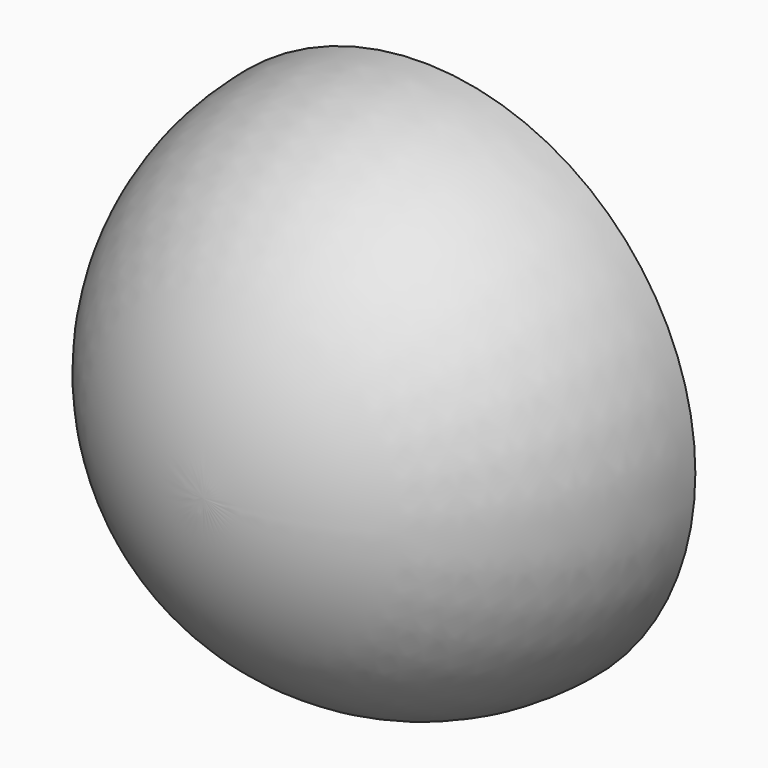
from build123d import *


with BuildPart() as f1:
    # F0 (on Top) → F1 (revolve)
    with BuildSketch(Plane.XY):
        with BuildLine():
            Line((0, 25.4), (0, 0))
            ThreePointArc((0, 0), (17.960512, 7.439488), (25.4, 25.4))
            Line((25.4, 25.4), (0, 25.4))
        make_face()
    revolve(axis=Axis((0, 12.7, 0), (0, -1, 0)))


solid = f1.part
